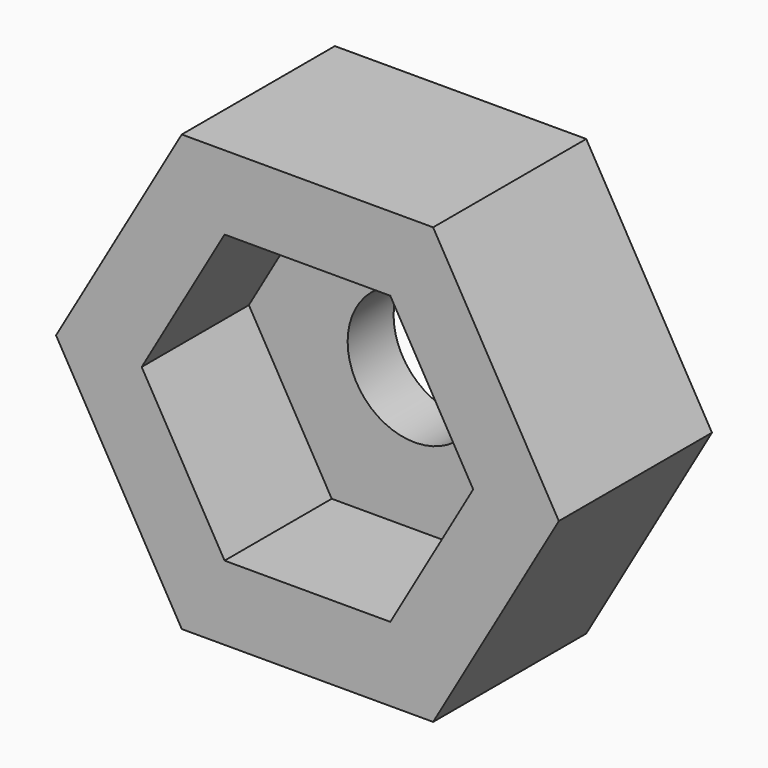
from build123d import *

# Parameters (mm, degrees)
F1_DEPTH = 5.08
F3_DEPTH = 3.556
F4_R     = 1.778
F5_DEPTH = 5.081


with BuildPart() as f1:
    # F0 (on Front) → F1 (new body)
    with BuildSketch(Plane.XZ):
        Polygon((3.336219, 5.7785), (-3.336219, 5.7785), (-6.672437, 0), (-3.336219, -5.7785), (3.336219, -5.7785), (6.672437, 0), align=None)
    extrude(amount=F1_DEPTH)

    # F2 (on face) → F3 (cut)
    with BuildSketch(Plane.XZ.offset(5.08)):
        Polygon((-2.199705, -3.81), (2.199705, -3.81), (4.399409, 0), (2.199705, 3.81), (-2.199705, 3.81), (-4.399409, 0), align=None)
    extrude(amount=-F3_DEPTH, mode=Mode.SUBTRACT)

    # F4 (on face) → F5 (cut, through all)
    with BuildSketch(Plane(origin=(0, 0, 0), x_dir=(-1, 0, 0), z_dir=(0, 1, 0))):
        Circle(F4_R)
    extrude(amount=-F5_DEPTH, mode=Mode.SUBTRACT)


solid = f1.part
